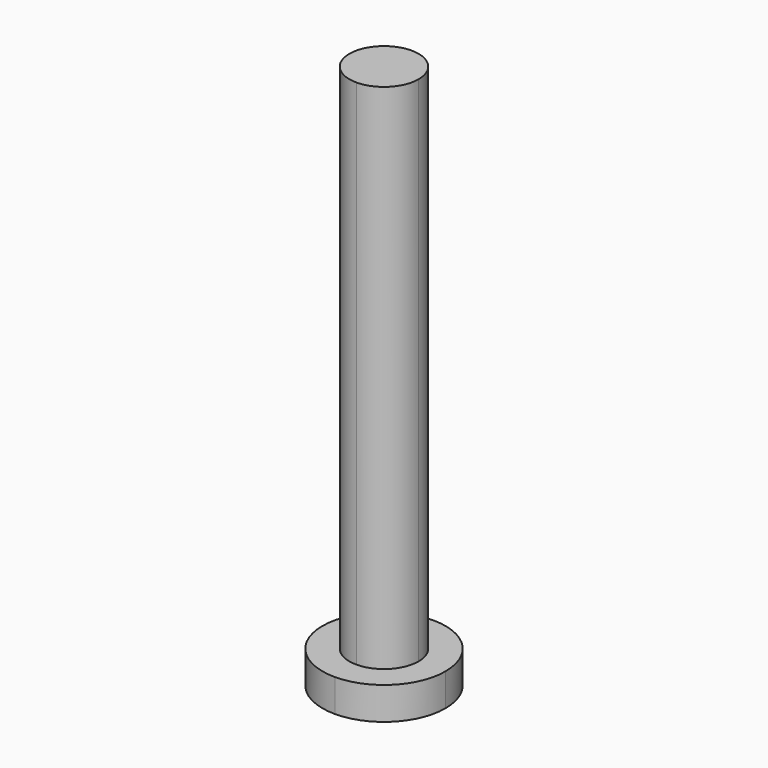
from build123d import *

# Parameters (mm, degrees)
F1_DEPTH = 3.175
F3_DEPTH = 50


with BuildPart() as f1:
    # F0 (on Top) → F1 (new body)
    with BuildSketch(Plane.XY):
        with BuildLine():
            Line((0, 3.37345), (0, 6))
            ThreePointArc((0, 6), (-4.2426406871, 4.2426406871), (-6, 0))
            Line((-6, 0), (-3.37345, 0))
            ThreePointArc((-3.37345, 0), (-2.385389371, 2.385389371), (0, 3.37345))
        make_face()
        with BuildLine():
            Line((0, 0), (0, 3.37345))
            ThreePointArc((0, 3.37345), (-2.385389371, 2.385389371), (-3.37345, 0))
            Line((-3.37345, 0), (0, 0))
        make_face()
        with BuildLine():
            ThreePointArc((3.37345, 0), (2.385389371, 2.385389371), (0, 3.37345))
            Line((0, 3.37345), (0, 0))
            Line((0, 0), (3.37345, 0))
        make_face()
        with BuildLine():
            ThreePointArc((6, 0), (4.2426406871, 4.2426406871), (0, 6))
            Line((0, 6), (0, 3.37345))
            ThreePointArc((0, 3.37345), (2.385389371, 2.385389371), (3.37345, 0))
            Line((3.37345, 0), (6, 0))
        make_face()
        with BuildLine():
            ThreePointArc((0, -6), (4.2426406871, -4.2426406871), (6, 0))
            Line((6, 0), (3.37345, 0))
            ThreePointArc((3.37345, 0), (2.385389371, -2.385389371), (0, -3.37345))
            Line((0, -3.37345), (0, -6))
        make_face()
        with BuildLine():
            Line((3.37345, 0), (0, 0))
            Line((0, 0), (0, -3.37345))
            ThreePointArc((0, -3.37345), (2.385389371, -2.385389371), (3.37345, 0))
        make_face()
        with BuildLine():
            Line((0, -3.37345), (0, 0))
            Line((0, 0), (-3.37345, 0))
            ThreePointArc((-3.37345, 0), (-2.385389371, -2.385389371), (0, -3.37345))
        make_face()
        with BuildLine():
            Line((-3.37345, 0), (-6, 0))
            ThreePointArc((-6, 0), (-4.2426406871, -4.2426406871), (0, -6))
            Line((0, -6), (0, -3.37345))
            ThreePointArc((0, -3.37345), (-2.385389371, -2.385389371), (-3.37345, 0))
        make_face()
    extrude(amount=-F1_DEPTH)

    # F2 (on Top) → F3 (join)
    with BuildSketch(Plane.XY):
        with BuildLine():
            ThreePointArc((3.37345, 0), (2.385389371, 2.385389371), (0, 3.37345))
            Line((0, 3.37345), (0, 0))
            Line((0, 0), (3.37345, 0))
        make_face()
        with BuildLine():
            Line((3.37345, 0), (0, 0))
            Line((0, 0), (0, -3.37345))
            ThreePointArc((0, -3.37345), (2.385389371, -2.385389371), (3.37345, 0))
        make_face()
        with BuildLine():
            Line((0, -3.37345), (0, 0))
            Line((0, 0), (-3.37345, 0))
            ThreePointArc((-3.37345, 0), (-2.385389371, -2.385389371), (0, -3.37345))
        make_face()
        with BuildLine():
            Line((0, 0), (0, 3.37345))
            ThreePointArc((0, 3.37345), (-2.385389371, 2.385389371), (-3.37345, 0))
            Line((-3.37345, 0), (0, 0))
        make_face()
    extrude(amount=F3_DEPTH)


solid = f1.part
